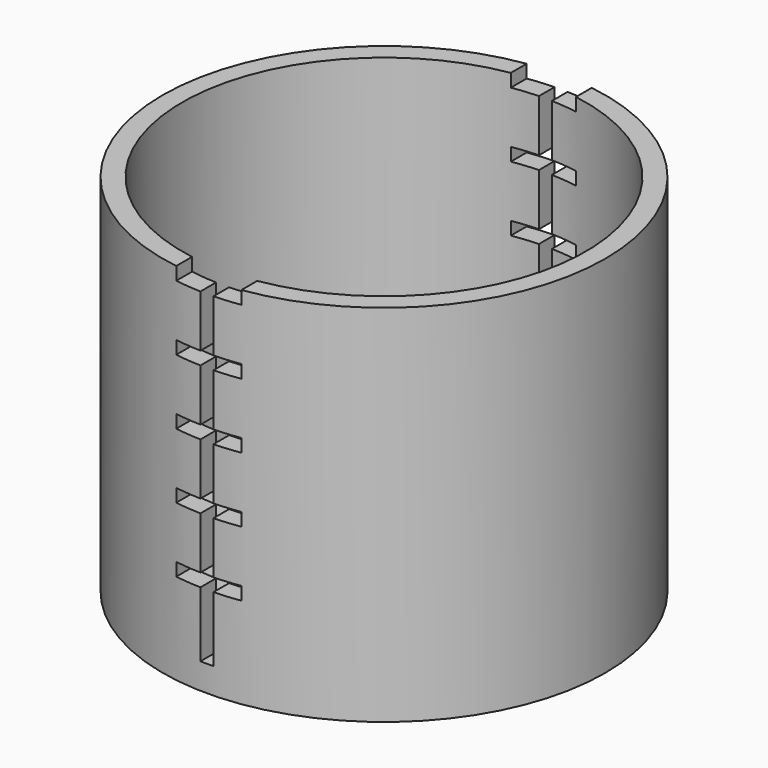
from build123d import *

# Parameters (mm, degrees)
F0_R          = 170
F1_DEPTH      = 280
F2_R          = 155
F3_DEPTH      = 260
F5_DEPTH      = 170.001
F5_DEPTH_BACK = 170.001


with BuildPart() as f1:
    # F0 (on Top) → F1 (new body)
    with BuildSketch(Plane.XY):
        Circle(F0_R)
    extrude(amount=F1_DEPTH)

    # F2 (on face) → F3 (cut)
    with BuildSketch(Plane.XY.offset(280)):
        Circle(F2_R)
    extrude(amount=-F3_DEPTH, mode=Mode.SUBTRACT)

    # F4 (on Front) → F5 (cut, two sides)
    with BuildSketch(Plane.XZ) as f5_sk:
        Polygon((5, 280), (0, 280), (-5, 280), (-25, 280), (-25, 270), (-5, 270), (-5, 230), (-25, 230), (-25, 225), (-25, 220), (-5, 220), (-5, 180), (-25, 180), (-25, 175), (-25, 170), (-5, 170), (-5, 130), (-25, 130), (-25, 125), (-25, 120), (-5, 120), (-5, 80), (-25, 80), (-25, 75), (-25, 70), (-5, 70), (-5, 30), (-5, 20), (5, 20), (5, 30), (5, 70), (25, 70), (25, 80), (5, 80), (5, 120), (25, 120), (25, 130), (5, 130), (5, 170), (25, 170), (25, 180), (5, 180), (5, 220), (25, 220), (25, 230), (5, 230), (5, 270), (25, 270), (25, 280), align=None)
    extrude(amount=F5_DEPTH, mode=Mode.SUBTRACT)
    extrude(f5_sk.sketch, amount=-F5_DEPTH_BACK, mode=Mode.SUBTRACT)


solid = f1.part
